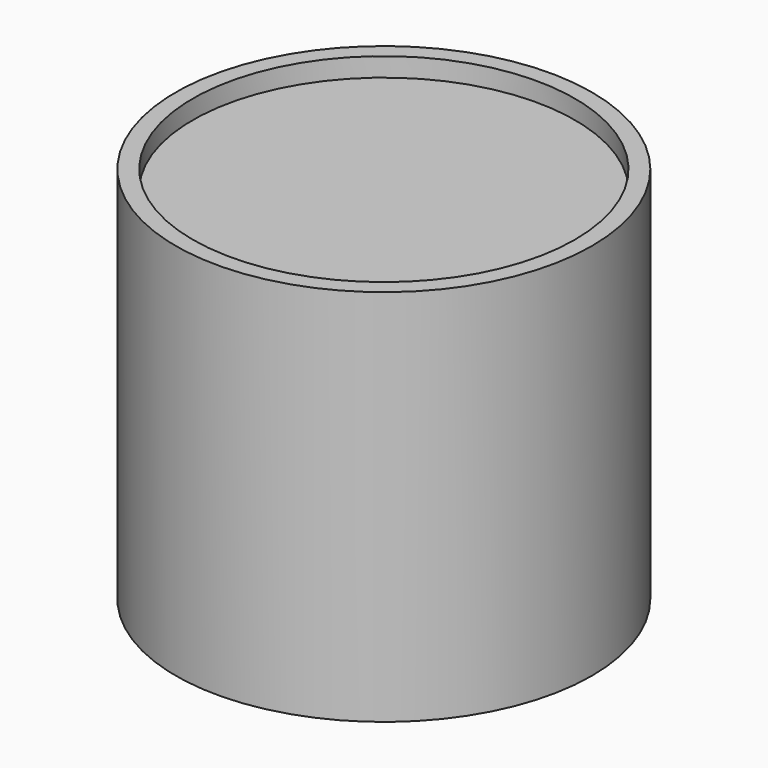
from build123d import *

# Parameters (mm, degrees)
SKETCH_R     = 11
PAD_DEPTH    = 20
SKETCH001_R  = 10.1
POCKET_DEPTH = 1


with BuildPart() as part:
    # Sketch → Pad (new body)
    with BuildSketch(Plane.XY):
        Circle(SKETCH_R)
    extrude(amount=PAD_DEPTH)

    # Sketch001 (on Face3 of Pad) → Pocket (cut)
    with BuildSketch(Plane.XY.offset(20)):
        Circle(SKETCH001_R)
    extrude(amount=-POCKET_DEPTH, mode=Mode.SUBTRACT)


solid = part.part
